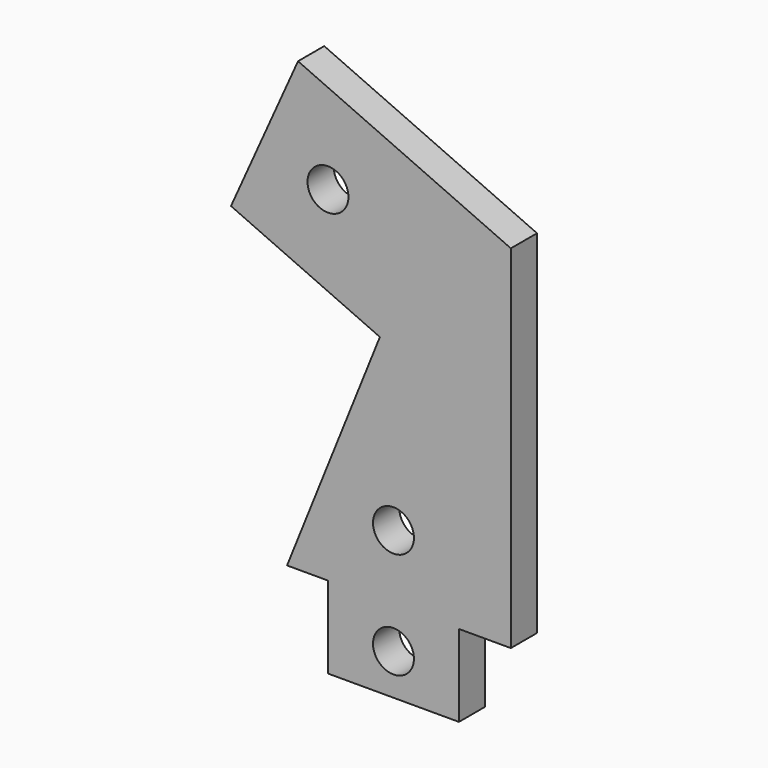
from build123d import *

# Parameters (mm, degrees)
F0_R     = 2.5
F1_DEPTH = 4


with BuildPart() as f1:
    # F0 (on Front) → F1 (new body)
    with BuildSketch(Plane.XZ):
        Polygon((0, 10), (0, 0), (16, 0), (16, 10), (22.341352, 10), (22.341352, 53), (-3.657604, 64.674942), (-11.850545, 46.43006), (6.341352, 38.260911), (-5, 10), align=None)
        with Locations((8, 5)):
            Circle(F0_R, mode=Mode.SUBTRACT)
        with Locations((8, 18)):
            Circle(F0_R, mode=Mode.SUBTRACT)
        with Locations((0, 52.070501)):
            Circle(F0_R, mode=Mode.SUBTRACT)
    extrude(amount=F1_DEPTH)


solid = f1.part
